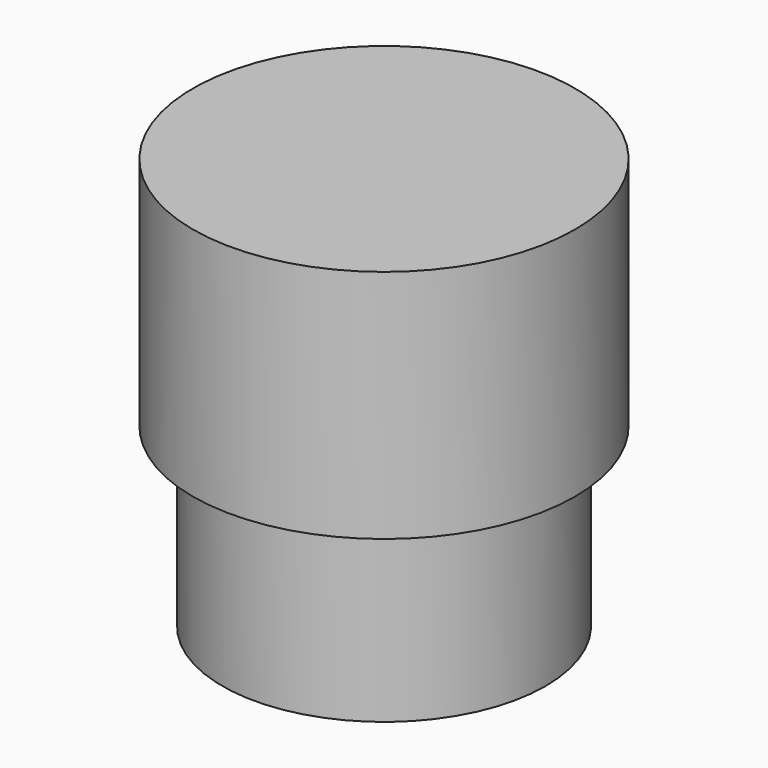
from build123d import *

# Parameters (mm, degrees)
SKETCH_R     = 13.75
PAD_DEPTH    = 15
SKETCH001_R  = 12.75
POCKET_DEPTH = 13
SKETCH002_R  = 16.25
PAD001_DEPTH = 20


with BuildPart() as part:
    # Sketch → Pad (new body)
    with BuildSketch(Plane.XY):
        Circle(SKETCH_R)
    extrude(amount=PAD_DEPTH)

    # Sketch001 (on Face2 of Pad) → Pocket (cut)
    with BuildSketch(Plane(origin=(0, 0, 0), x_dir=(1, 0, 0), z_dir=(0, 0, -1))):
        Circle(SKETCH001_R)
    extrude(amount=-POCKET_DEPTH, mode=Mode.SUBTRACT)

    # Sketch002 (on Face3 of Pocket) → Pad001 (join)
    with BuildSketch(Plane.XY.offset(15)):
        Circle(SKETCH002_R)
    extrude(amount=PAD001_DEPTH)


solid = part.part
